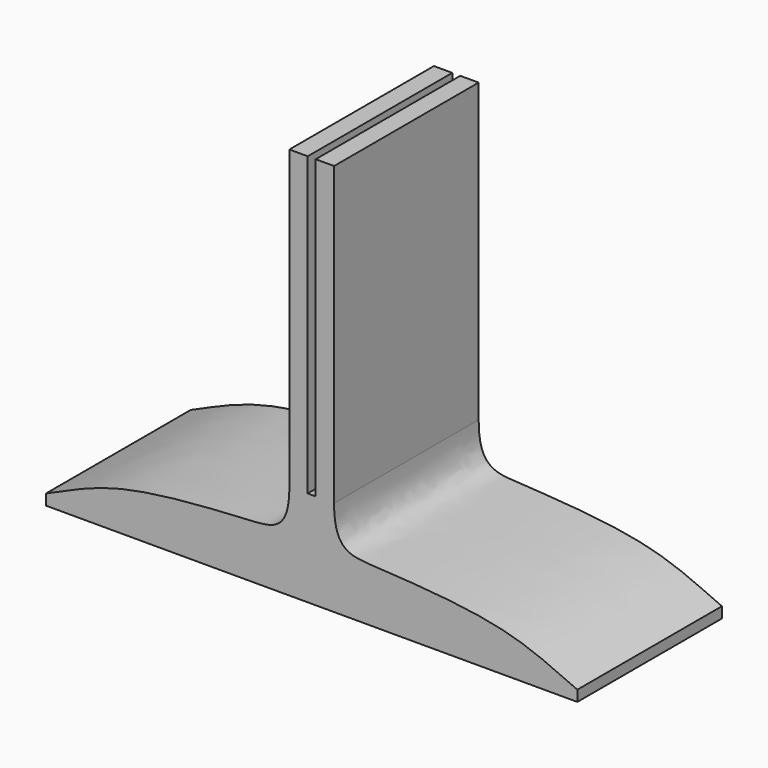
from build123d import *

# Parameters (mm, degrees)
F0_W     = 211.1423015594
F0_H     = 71.8148499727
F1_DEPTH = 38.1
F4_DEPTH = 71.8148499727
F6_DEPTH = 90.678


with BuildPart() as f1:
    # F0 (on Top) → F1 (new body)
    with BuildSketch(Plane.XY):
        Rectangle(F0_W, F0_H)
    extrude(amount=F1_DEPTH)

    # F3 (on face) → F4 (join, through all)
    with BuildSketch(Plane.XZ.offset(35.9074249864)):
        Polygon((-8.89, 19.05), (8.89, 19.05), (8.89, 156.0654991746), (1.5875, 156.0654991746), (1.5875, 25.9591713548), (-1.5875, 25.9591713548), (-1.5875, 156.0654991746), (-8.89, 156.0654991746), align=None)
    extrude(amount=-F4_DEPTH)

    # F5 (on face) → F6 (cut)
    with BuildSketch(Plane.XZ.offset(35.9074249864)):
        with BuildLine():
            Line((-107.0431917906, 43.3599539101), (-107.0431917906, 3.6818189494))
            add(Edge.make_bspline(
                [(-107.0431917906, 3.6818189494), (-98.3908130965, 7.2554203267), (-78.2537077612, 18.3396192593), (-24.7400000825, 21.1928359311), (-8.89, 22.0728348941), (-8.89, 38.1)],
                knots=[0, 0, 0, 0, 0.3193478157, 0.7283198865, 1, 1, 1, 1], degree=3))
            Line((-8.89, 38.1), (-107.0431917906, 43.3599539101))
        make_face()
        with BuildLine():
            add(Edge.make_bspline(
                [(107.0431917906, 3.6818189494), (98.3908130965, 7.2554203267), (78.2537077612, 18.3396192593), (24.7400000825, 21.1928359311), (8.89, 22.0728348941), (8.89, 38.1)],
                knots=[0, 0, 0, 0, 0.3193478157, 0.7283198865, 1, 1, 1, 1], degree=3))
            Line((107.0431917906, 3.6818189494), (107.0431917906, 43.3599539101))
            Line((107.0431917906, 43.3599539101), (8.89, 38.1))
        make_face()
    extrude(amount=-F6_DEPTH, mode=Mode.SUBTRACT)


solid = f1.part
